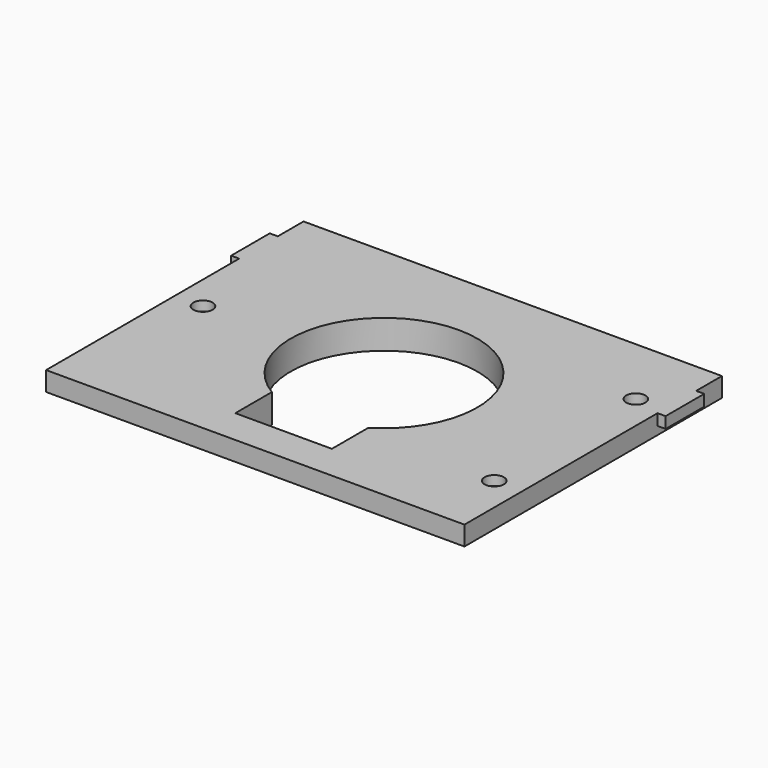
from build123d import *

# Parameters (mm, degrees)
F0_W     = 260
F0_H     = 200
F1_DEPTH = 12
F2_DEPTH = 6
F3_W     = 5
F3_H     = 30
F4_DEPTH = 7
F5_R     = 6
F5_R_2   = 2.5
F6_DEPTH = 6
F7_DEPTH = 18.001


with BuildPart() as f1:
    # F0 (on Top) → F1 (new body)
    with BuildSketch(Plane.XY):
        Rectangle(F0_W, F0_H)
        Polygon((-86.75, 78), (86.75, 78), (106.75, 58), (106.75, -58), (86.75, -78), (30, -78), (-30, -78), (-86.75, -78), (-106.75, -58), (-106.75, 58), align=None, mode=Mode.SUBTRACT)
        with BuildLine():
            Line((106.75, 58), (86.75, 78))
            Line((86.75, 78), (-86.75, 78))
            Line((-86.75, 78), (-106.75, 58))
            Line((-106.75, 58), (-106.75, -58))
            Line((-106.75, -58), (-86.75, -78))
            Line((-86.75, -78), (-30, -78))
            Line((-30, -78), (-30, -49.638695))
            ThreePointArc((-30, -49.638695), (0, 58), (30, -49.638695))
            Line((30, -49.638695), (30, -78))
            Line((30, -78), (86.75, -78))
            Line((86.75, -78), (106.75, -58))
            Line((106.75, -58), (106.75, 58))
        make_face()
    extrude(amount=F1_DEPTH)

    # F0 (on Top) → F2 (join)
    with BuildSketch(Plane.XY):
        with BuildLine():
            Line((106.75, 58), (86.75, 78))
            Line((86.75, 78), (-86.75, 78))
            Line((-86.75, 78), (-106.75, 58))
            Line((-106.75, 58), (-106.75, -58))
            Line((-106.75, -58), (-86.75, -78))
            Line((-86.75, -78), (-30, -78))
            Line((-30, -78), (-30, -49.638695))
            ThreePointArc((-30, -49.638695), (0, 58), (30, -49.638695))
            Line((30, -49.638695), (30, -78))
            Line((30, -78), (86.75, -78))
            Line((86.75, -78), (106.75, -58))
            Line((106.75, -58), (106.75, 58))
        make_face()
    extrude(amount=-F2_DEPTH)

    # F3 (on face) → F4 (join)
    with BuildSketch(Plane.XY.offset(12)):
        with Locations((-132.5, 65)):
            Rectangle(F3_W, F3_H)
        with Locations((132.5, 65)):
            Rectangle(F3_W, F3_H)
    extrude(amount=-F4_DEPTH)

    # F5 (on face) → F6 (cut)
    with BuildSketch(Plane.XY.offset(12)):
        with Locations((-112.5, 0)):
            Circle(F5_R)
        with Locations((-112.5, 0)):
            Circle(F5_R_2, mode=Mode.SUBTRACT)
        with Locations((-112.5, 0)):
            Circle(F5_R_2)
        with Locations((112.5, 55)):
            Circle(F5_R)
        with Locations((112.5, 55)):
            Circle(F5_R_2, mode=Mode.SUBTRACT)
        with Locations((112.5, 55)):
            Circle(F5_R_2)
        with Locations((112.5, -55)):
            Circle(F5_R_2)
        with Locations((112.5, -55)):
            Circle(F5_R)
        with Locations((112.5, -55)):
            Circle(F5_R_2, mode=Mode.SUBTRACT)
    extrude(amount=-F6_DEPTH, mode=Mode.SUBTRACT)

    # F5 (on face) → F7 (cut, through all)
    with BuildSketch(Plane.XY.offset(12)):
        with Locations((-112.5, 0)):
            Circle(F5_R_2)
        with Locations((112.5, 55)):
            Circle(F5_R_2)
        with Locations((112.5, -55)):
            Circle(F5_R_2)
    extrude(amount=-F7_DEPTH, mode=Mode.SUBTRACT)


solid = f1.part
